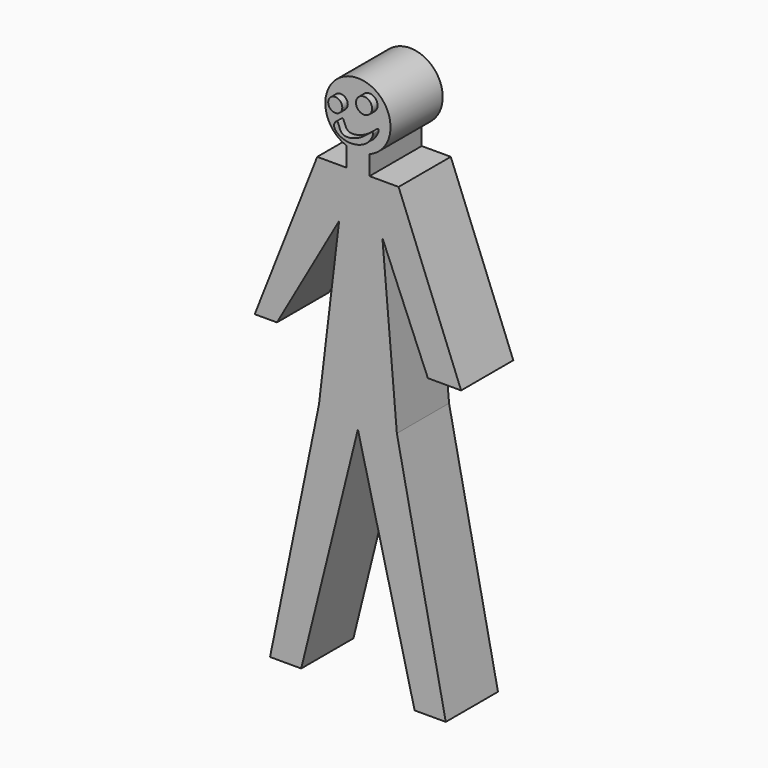
from build123d import *

# Parameters (mm, degrees)
F1_DEPTH = 100
F2_R     = 21.5886417048
F2_R_2   = 24.6150282736
F3_DEPTH = 21


with BuildPart() as f1:
    # F0 (on Front) → F1 (new body, symmetric)
    with BuildSketch(Plane.XZ):
        with BuildLine():
            ThreePointArc((35.6107763946, 1017.418384552), (98.3474680479, 1128.9674460156), (0, 1210.8628739806))
            ThreePointArc((0, 1210.8628739806), (-98.3474680479, 1128.9674460156), (-35.6107763946, 1017.418384552))
            Line((-35.6107763946, 1017.418384552), (-35.6107763946, 957.8346954225))
            Line((-35.6107763946, 957.8346954225), (-124.767777348, 957.8346954225))
            Line((-124.767777348, 957.8346954225), (-316.3984388356, 470.7734332918))
            Line((-316.3984388356, 470.7734332918), (-248.2028006078, 470.7734332918))
            Line((-248.2028006078, 470.7734332918), (-57.5520955026, 806.7892193794))
            Line((-57.5520955026, 806.7892193794), (-119.449198246, 290.8188700676))
            Line((-119.449198246, 290.8188700676), (-269.3851142813, -439.1371260194))
            Line((-269.3851142813, -439.1371260194), (-173.8435637442, -439.1371260194))
            Line((-173.8435637442, -439.1371260194), (0, 262.8727257252))
            Line((0, 262.8727257252), (173.8435637442, -439.1371260194))
            Line((173.8435637442, -439.1371260194), (269.3851142813, -439.1371260194))
            Line((269.3851142813, -439.1371260194), (119.449198246, 290.8188700676))
            Line((119.449198246, 290.8188700676), (75.1282572746, 803.9661645889))
            Line((75.1282572746, 803.9661645889), (214.4739990169, 470.7734332918))
            Line((214.4739990169, 470.7734332918), (316.3984388356, 470.7734332918))
            Line((316.3984388356, 470.7734332918), (124.767777348, 957.8346954225))
            Line((124.767777348, 957.8346954225), (35.6107763946, 957.8346954225))
            Line((35.6107763946, 957.8346954225), (35.6107763946, 1017.418384552))
        make_face()
    extrude(amount=F1_DEPTH, both=True)

    # F2 (on face) → F3 (join)
    with BuildSketch(Plane.XZ.offset(100)):
        with Locations((-52.6945628226, 1129.8661231995)):
            Circle(F2_R)
        with Locations((35.6107763946, 1156.6877365112)):
            Circle(F2_R_2)
        with BuildLine():
            add(Edge.make_bspline(
                [(-56.1959594488, 1072.7338790894), (-55.924177507, 1059.9617369508), (-16.9304138442, 1031.8550429672), (52.9069858404, 1052.444888033), (68.8536482627, 1100.9438511252), (46.6390210232, 1083.2507084319), (20.7228541214, 1060.5728618004), (-39.3811416258, 1046.8222391451), (-42.433383012, 1098.137824899), (-56.3583007079, 1080.3629571017), (-56.1959594488, 1072.7338790894)],
                knots=[0, 0, 0, 0, 0.1448792193, 0.3216273429, 0.4396148241, 0.51965969, 0.6525806211, 0.7994169759, 0.9134604944, 1, 1, 1, 1], degree=3))
        make_face()
    extrude(amount=F3_DEPTH)


solid = f1.part
